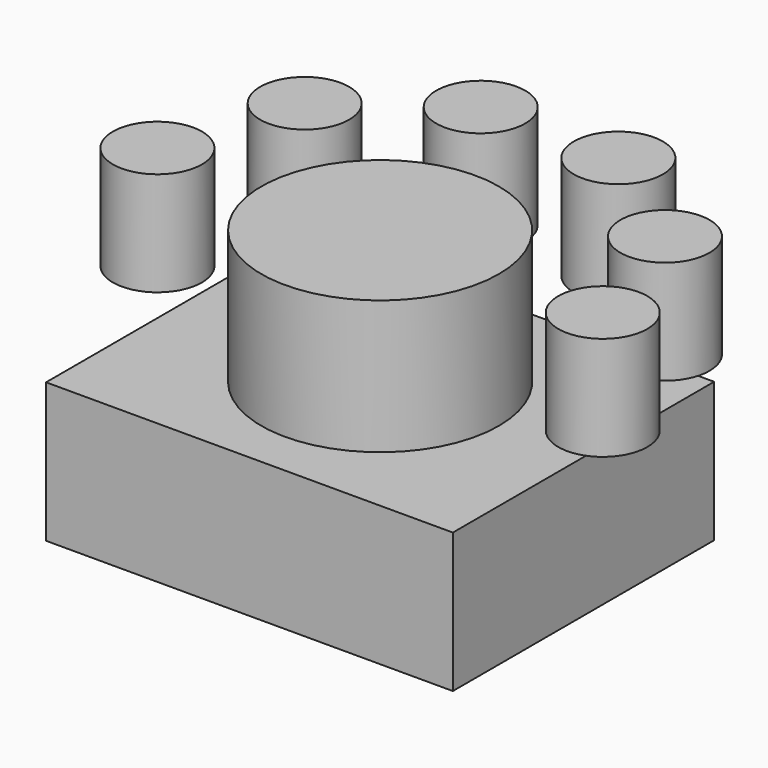
from build123d import *

# Parameters (mm, degrees)
F0_W     = 347.98
F0_H     = 279.4
F1_DEPTH = 119.38
F2_R     = 101.6
F3_DEPTH = 114.3
F4_R     = 38.1
F5_DEPTH = 88.9


with BuildPart() as f1:
    # F0 (on Top) → F1 (new body)
    with BuildSketch(Plane.XY):
        Rectangle(F0_W, F0_H)
    extrude(amount=F1_DEPTH)

    # F2 (on face) → F3 (join)
    with BuildSketch(Plane.XY.offset(119.38)):
        Circle(F2_R)
    extrude(amount=F3_DEPTH)


with BuildPart() as f5:
    # F4 (on face) → F5 (new body)
    with BuildSketch(Plane.XY.offset(233.68)):
        with Locations((-190.5, 0)):
            Circle(F4_R)
        with Locations((-154.117737, 111.973091)):
            Circle(F4_R)
        with Locations((-58.867737, 181.176266)):
            Circle(F4_R)
        with Locations((58.867737, 181.176266)):
            Circle(F4_R)
        with Locations((154.117737, 111.973091)):
            Circle(F4_R)
        with Locations((190.5, 0)):
            Circle(F4_R)
    extrude(amount=-F5_DEPTH)


solid = Compound([f1.part, f5.part])
